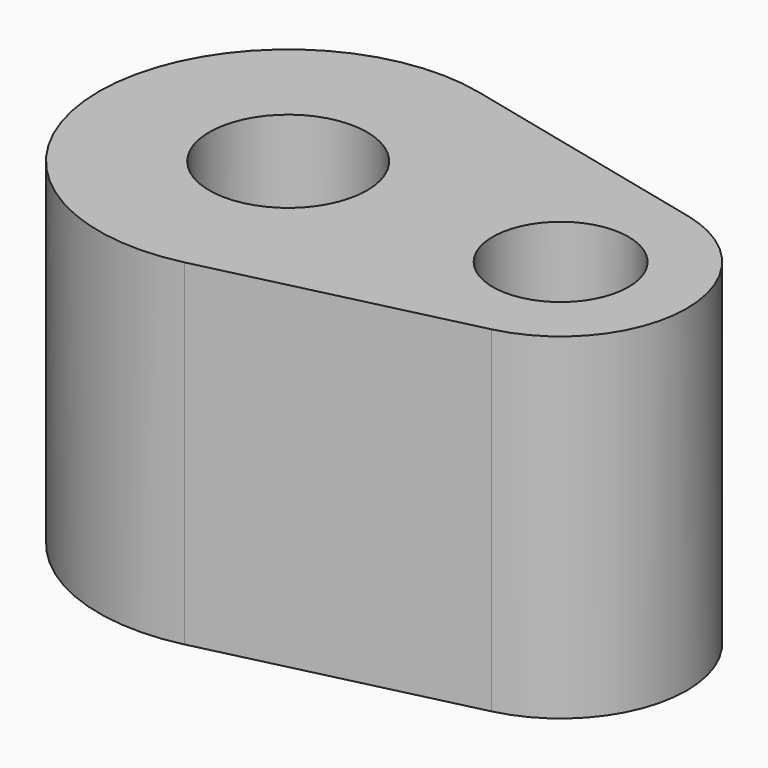
from build123d import *

# Parameters (mm, degrees)
F0_R        = 11.915187
F0_R_2      = 10.259899
F1_DEPTH    = 25.4
F1_FACE_R   = 11.915187
F1_FACE_R_2 = 10.259899
F2_DEPTH    = 12.7
F3_DEPTH    = 25.4


with BuildPart() as f1:
    # F0 (on Top) → F1 (new body)
    with BuildSketch(Plane.XY):
        with BuildLine():
            Line((45.557722, 18.532589), (6.614583, 27.798883))
            ThreePointArc((6.614583, 27.798883), (-28.575, 0), (6.614583, -27.798883))
            Line((6.614583, -27.798883), (45.557722, -18.532589))
            ThreePointArc((45.557722, -18.532589), (60.198, 0), (45.557722, 18.532589))
        make_face()
        Circle(F0_R, mode=Mode.SUBTRACT)
        with Locations((41.148, 0)):
            Circle(F0_R_2, mode=Mode.SUBTRACT)
    extrude(amount=F1_DEPTH)

    # F1_face (on face) → F2 (join)
    with BuildSketch(Plane(origin=(12.189133, 0, 25.4), x_dir=(1, 0, 0), z_dir=(0, 0, 1))):
        with BuildLine():
            Line((-5.57455, -27.798883), (33.368589, -18.532589))
            ThreePointArc((33.368589, -18.532589), (48.008867, 0), (33.368589, 18.532589))
            Line((33.368589, 18.532589), (-5.57455, 27.798883))
            ThreePointArc((-5.57455, 27.798883), (-40.764133, 0), (-5.57455, -27.798883))
        make_face()
        with Locations((-12.189133, 0)):
            Circle(F1_FACE_R, mode=Mode.SUBTRACT)
        with Locations((28.958867, 0)):
            Circle(F1_FACE_R_2, mode=Mode.SUBTRACT)
    extrude(amount=-F2_DEPTH)

    # F1_face (on face) → F3 (join)
    with BuildSketch(Plane(origin=(12.189133, 0, 25.4), x_dir=(1, 0, 0), z_dir=(0, 0, 1))):
        with BuildLine():
            Line((-5.57455, -27.798883), (33.368589, -18.532589))
            ThreePointArc((33.368589, -18.532589), (48.008867, 0), (33.368589, 18.532589))
            Line((33.368589, 18.532589), (-5.57455, 27.798883))
            ThreePointArc((-5.57455, 27.798883), (-40.764133, 0), (-5.57455, -27.798883))
        make_face()
        with Locations((-12.189133, 0)):
            Circle(F1_FACE_R, mode=Mode.SUBTRACT)
        with Locations((28.958867, 0)):
            Circle(F1_FACE_R_2, mode=Mode.SUBTRACT)
    extrude(amount=F3_DEPTH)


solid = f1.part
